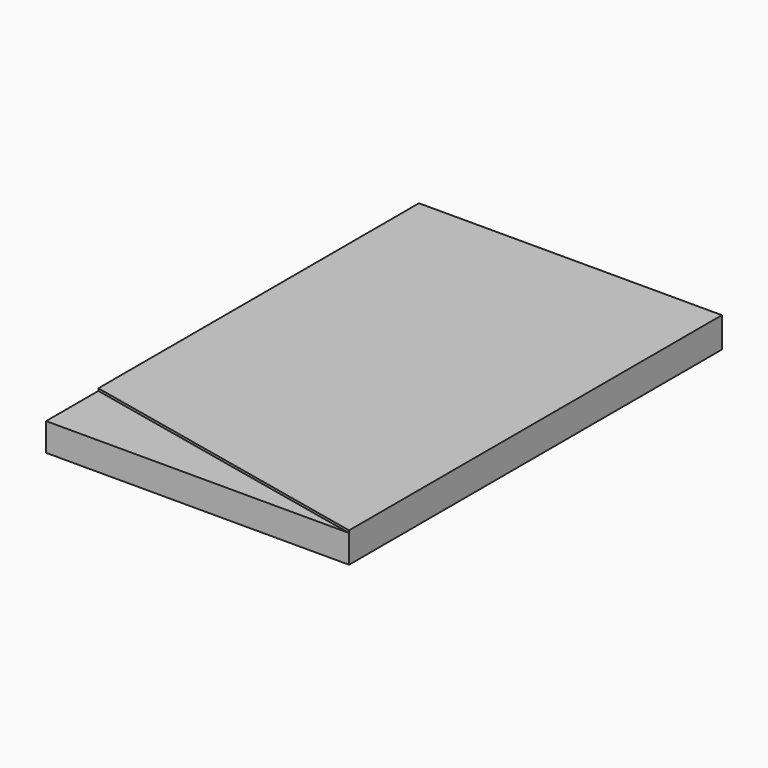
from build123d import *

# Parameters (mm, degrees)
PAD_DEPTH    = 13
POCKET_DEPTH = 1


with BuildPart() as part:
    # Sketch → Pad (new body)
    with BuildSketch(Plane.XY):
        Polygon((0, 0), (0, 100), (130, 100), (130, -100), (0, -100), align=None)
    extrude(amount=PAD_DEPTH)

    # Sketch002 (on Face7 of Pad) → Pocket (cut)
    with BuildSketch(Plane.XY.offset(13)):
        Polygon((0, -100), (0, -71.973152), (130, -100), align=None)
    extrude(amount=-POCKET_DEPTH, mode=Mode.SUBTRACT)


solid = part.part
